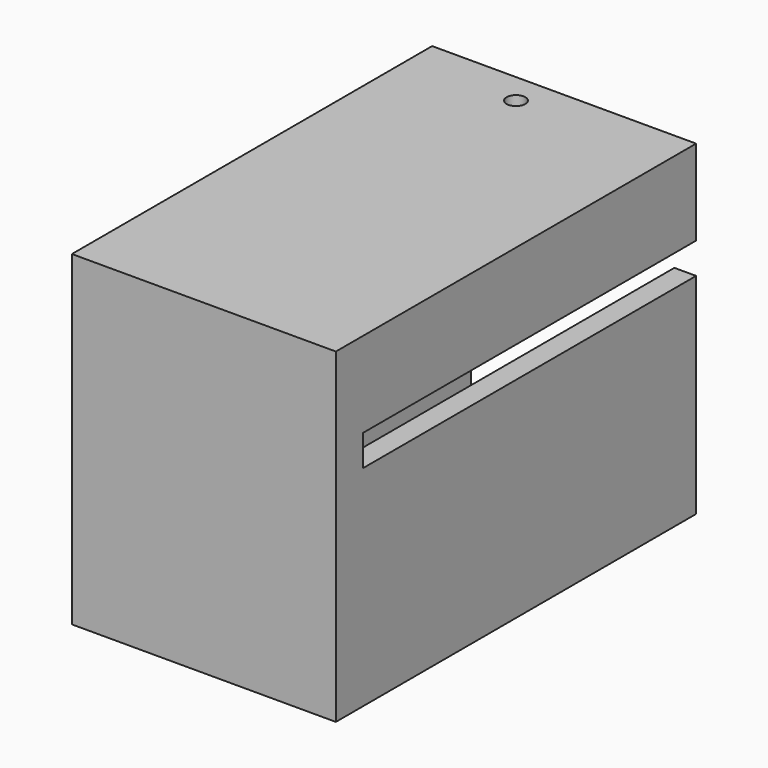
from build123d import *

# Parameters (mm, degrees)
SKETCH246_W     = 17
SKETCH246_H     = 21
PAD159_DEPTH    = 29
SKETCH242_W     = 13.1
SKETCH242_H     = 17
POCKET027_DEPTH = 25.7
SKETCH243_W     = 11.5
SKETCH243_H     = 1.2
SKETCH243_W_2   = 1.4
SKETCH243_H_2   = 2
POCKET028_DEPTH = 26.8
SKETCH235_R     = 0.6
POCKET029_DEPTH = 50
SKETCH241_W     = 0.6
SKETCH241_H     = 3
POCKET030_DEPTH = 2.5


with BuildPart() as part:
    # Sketch246 → Pad159 (new body)
    with BuildSketch(Plane.XZ):
        with Locations((1.5, 2)):
            Rectangle(SKETCH246_W, SKETCH246_H)
    extrude(amount=PAD159_DEPTH)

    # Sketch242 (on Face5 of Pad159) → Pocket027 (cut)
    with BuildSketch(Plane(origin=(0, 0, 0), x_dir=(1, 0, 0), z_dir=(0, 1, 0))):
        with Locations((2.05, -2)):
            Rectangle(SKETCH242_W, SKETCH242_H)
    extrude(amount=-POCKET027_DEPTH, mode=Mode.SUBTRACT)

    # Sketch243 (on Face4 of Pocket027) → Pocket028 (cut)
    with BuildSketch(Plane(origin=(0, 0, 0), x_dir=(1, 0, 0), z_dir=(0, 1, 0))):
        Rectangle(SKETCH243_W, SKETCH243_H)
        with Locations((9.3, -6)):
            Rectangle(SKETCH243_W_2, SKETCH243_H_2)
    extrude(amount=-POCKET028_DEPTH, mode=Mode.SUBTRACT)

    # Sketch235 (on Face6 of Pocket028) → Pocket029 (cut)
    with BuildSketch(Plane(origin=(0, 0, -8.5), x_dir=(1, 0, 0), z_dir=(0, 0, -1))):
        with Locations((0, 2)):
            Circle(SKETCH235_R)
    extrude(amount=-POCKET029_DEPTH, mode=Mode.SUBTRACT)

    # Sketch241 (on Face21 of Pocket029) → Pocket030 (cut)
    with BuildSketch(Plane(origin=(8.6, 0, 0), x_dir=(0, 0, 1), z_dir=(1, 0, 0))):
        with Locations((0, -9)):
            Rectangle(SKETCH241_W, SKETCH241_H)
    extrude(amount=-POCKET030_DEPTH, mode=Mode.SUBTRACT)


solid = part.part
